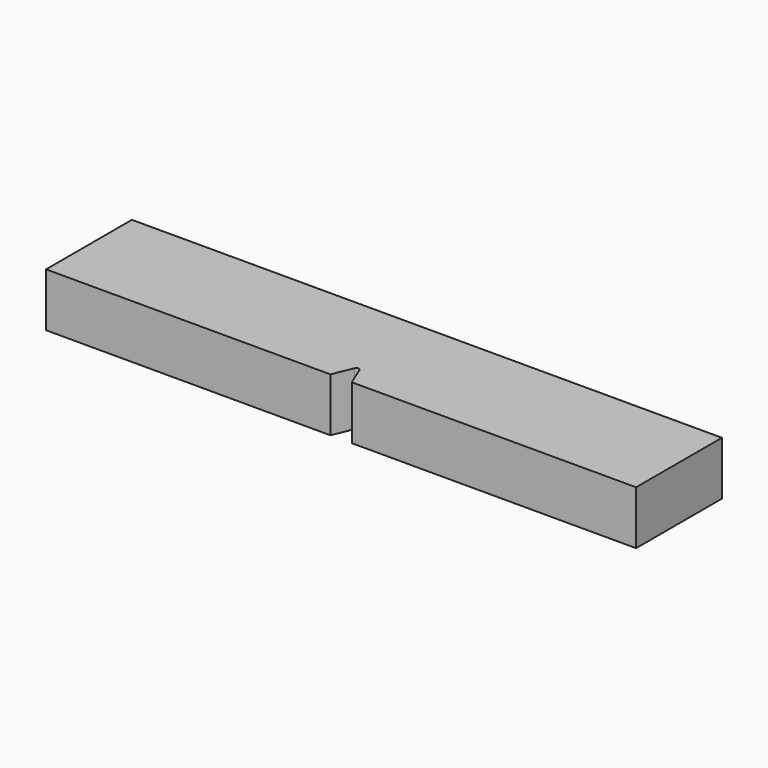
from build123d import *

# Parameters (mm, degrees)
F1_DEPTH = 2.5


with BuildPart() as f1:
    # F0 (on Top) → F1 (new body, symmetric)
    with BuildSketch(Plane.XY):
        with BuildLine():
            Line((27.5, -5), (27.5, 5))
            Line((27.5, 5), (-27.5, 5))
            Line((-27.5, 5), (-27.5, -5))
            Line((-27.5, -5), (-0.9954717842, -5))
            Line((-0.9954717842, -5), (-0.2309698831, -3.1543291419))
            ThreePointArc((-0.2309698831, -3.1543291419), (0, -3), (0.2309698831, -3.1543291419))
            Line((0.2309698831, -3.1543291419), (0.9954717842, -5))
            Line((0.9954717842, -5), (27.5, -5))
        make_face()
    extrude(amount=F1_DEPTH, both=True)


solid = f1.part
